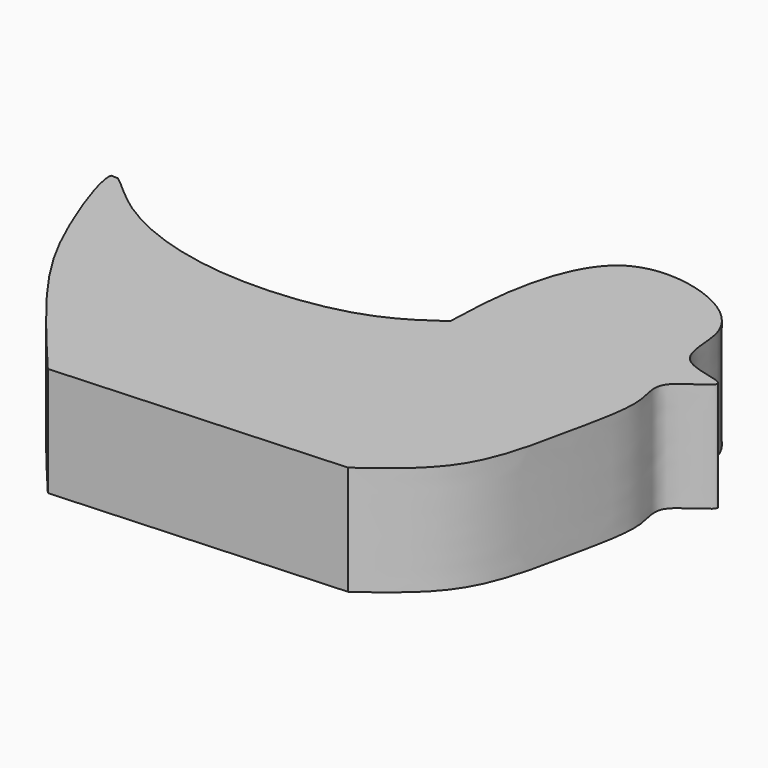
from build123d import *

# Parameters (mm, degrees)
F0_R     = 12.7
F1_DEPTH = 50.8
F3_DEPTH = 25.4
F4_DEPTH = 38.1
F5_R     = 12.7
F6_DEPTH = 38.1
F8_DEPTH = 57.15


with BuildPart() as f1:
    # F0 (on Top) → F1 (new body)
    with BuildSketch(Plane.XY):
        with BuildLine():
            add(Edge.make_bspline(
                [(27.4337547809, 46.5860947204), (27.8259118735, 59.3900340109), (28.7350240175, 84.9017231758), (44.5378608579, 128.0758350011), (88.7195783182, 123.9035588461), (113.4465866021, 102.6904143159), (107.0547835653, 72.2569992807), (145.524897028, 71.3576825747), (113.8233042067, 57.5283974657), (122.9841717086, 40.873377773), (114.655943501, 5.427898478), (106.0024884505, -40.4979150022), (82.1063592819, -57.8730035409), (70.38496787, -66.3942647761)],
                knots=[0, 0, 0, 0, 0.1029629306, 0.2057664197, 0.306021384, 0.3954744313, 0.4762577515, 0.549828534, 0.6204521602, 0.6838589597, 0.7819956339, 0.8933368667, 1, 1, 1, 1], degree=3))
            add(Edge.make_bspline(
                [(27.4337547809, 46.5860947204), (19.0425610538, 40.730682759), (-1.0084761896, 26.7389806087), (-66.2290425935, 19.9560057195), (-119.2634194787, 39.9383955077), (-147.3200936416, 72.2563390192), (-127.3044376269, 14.6390387909), (-106.0085026934, -22.816013629), (-78.0580296441, -56.0974582902), (-63.1372732443, -73.8640387536)],
                knots=[0, 0, 0, 0, 0.1203701816, 0.2876285631, 0.4510799528, 0.5494256124, 0.6817400159, 0.8301037808, 1, 1, 1, 1], degree=3))
            Line((-63.1372732443, -73.8640387536), (70.38496787, -66.3942647761))
        make_face()
        with Locations((41.7375797942, 2.6803046681)):
            Circle(F0_R, mode=Mode.SUBTRACT)
        with Locations((41.7375797942, 2.6803046681)):
            Circle(F0_R)
    extrude(amount=F1_DEPTH)

    # F2 (on face) → F3 (join)
    with BuildSketch(Plane(origin=(0, 0, 0), x_dir=(1, 0, 0), z_dir=(0, 0, -1))):
        with BuildLine():
            Line((47.2195408762, 40.7353246451), (52.6299588371, 39.7611060606))
            add(Edge.make_bspline(
                [(52.6299588371, 39.7611060606), (50.6489317335, 40.354024543), (49.1011674184, 40.6170382239), (47.2195408762, 40.7353246451)],
                knots=[0.9164611043, 0.9164611043, 0.9164611043, 0.9164611043, 0.9610036748, 0.9610036748, 0.9610036748, 0.9610036748], degree=3))
        make_face()
    extrude(amount=-F3_DEPTH)

    # F2 (on face) → F4 (cut)
    with BuildSketch(Plane(origin=(0, 0, 0), x_dir=(1, 0, 0), z_dir=(0, 0, -1))):
        with BuildLine():
            add(Edge.make_bspline(
                [(27.4337547809, -46.5860947204), (19.0425610538, -40.730682759), (-1.0084761896, -26.7389806087), (-55.5148065803, -21.0702921761), (-88.4397177841, -29.4788160905), (-98.8006035212, -33.6714621212)],
                knots=[0, 0, 0, 0, 0.1203701816, 0.2876285631, 0.3769779119, 0.3769779119, 0.3769779119, 0.3769779119], degree=3))
            add(Edge.make_bspline(
                [(27.4337547809, -46.5860947204), (31.4374033578, -46.9918999783), (39.2400492103, -47.8408391045), (52.0934510614, -46.6902157181), (60.9932037488, -43.726331701), (74.3368604304, -34.5443721443), (81.414893348, -24.1251005418), (86.1393998927, -11.0759091715), (86.4389982671, 3.3773020376), (81.4906832786, 18.1869300349), (71.7441511556, 31.743386456), (57.4668414874, 38.3134342367), (52.6299588371, 39.7611060606)],
                knots=[0, 0, 0, 0, 0.0848302943, 0.1710259554, 0.2464189815, 0.3430176379, 0.430193939, 0.5198914055, 0.6120710433, 0.7071907685, 0.8077058096, 0.9164611043, 0.9164611043, 0.9164611043, 0.9164611043], degree=3))
            Line((52.6299588371, 39.7611060606), (47.2195408762, 40.7353246451))
            Line((47.2195408762, 40.7353246451), (46.723164618, 40.8247038722))
            add(Edge.make_bspline(
                [(46.723164618, 40.8247038722), (16.7912098011, 42.358810039), (-30.6419434215, 44.5816740224), (-47.0031846207, 43.951368065), (-74.2157924914, 1.9459002937), (-90.716252816, -21.9801490439), (-98.8006035212, -33.6714621212)],
                knots=[0, 0, 0, 0, 0.3385372174, 0.4825242264, 0.7413965747, 1, 1, 1, 1], degree=3))
        make_face()
    extrude(amount=-F4_DEPTH, mode=Mode.SUBTRACT)

    # F5 (on face) → F6 (join)
    with BuildSketch(Plane(origin=(0, 0, 38.1), x_dir=(1, 0, 0), z_dir=(0, 0, -1))):
        with Locations((41.3066826957, -3.9115463854)):
            Circle(F5_R)
    extrude(amount=F6_DEPTH)

    # F7 (on face) → F8 (cut)
    with BuildSketch(Plane.XY.offset(50.8)):
        with BuildLine():
            add(Edge.make_bspline(
                [(-136.8484088539, 58.9384460345), (-138.1938176209, 59.8379872864), (-139.4211725045, 60.2568426195), (-139.9423078101, 59.3428762408), (-140.0205081808, 59.1071003783)],
                knots=[0.5205152397, 0.5205152397, 0.5205152397, 0.5205152397, 0.5494256124, 0.5567602734, 0.5567602734, 0.5567602734, 0.5567602734], degree=3))
            Line((-140.0205081808, 59.1071003783), (-136.8484088539, 58.9384460345))
        make_face()
    extrude(amount=-F8_DEPTH, mode=Mode.SUBTRACT)


solid = f1.part
